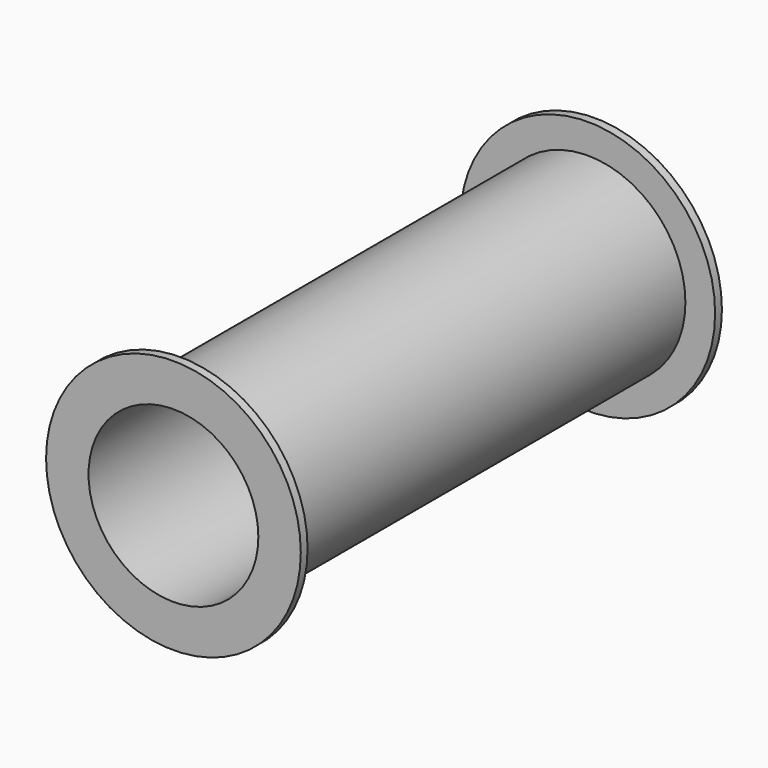
from build123d import *

# Parameters (mm, degrees)
F0_R     = 38.1
F0_R_2   = 29.21
F1_DEPTH = 2.54
F0_R_3   = 25.4
F2_DEPTH = 157.48
F3_R     = 38.1
F3_R_2   = 29.21
F4_DEPTH = 2.54


with BuildPart() as f1:
    # F0 (on Front) → F1 (new body)
    with BuildSketch(Plane.XZ):
        Circle(F0_R)
        Circle(F0_R_2, mode=Mode.SUBTRACT)
    extrude(amount=F1_DEPTH)

    # F0 (on Front) → F2 (join)
    with BuildSketch(Plane.XZ):
        Circle(F0_R_2)
        Circle(F0_R_3, mode=Mode.SUBTRACT)
    extrude(amount=F2_DEPTH)

    # F3 (on face) → F4 (join)
    with BuildSketch(Plane.XZ.offset(157.48)):
        Circle(F3_R)
        Circle(F3_R_2, mode=Mode.SUBTRACT)
    extrude(amount=-F4_DEPTH)


solid = f1.part
